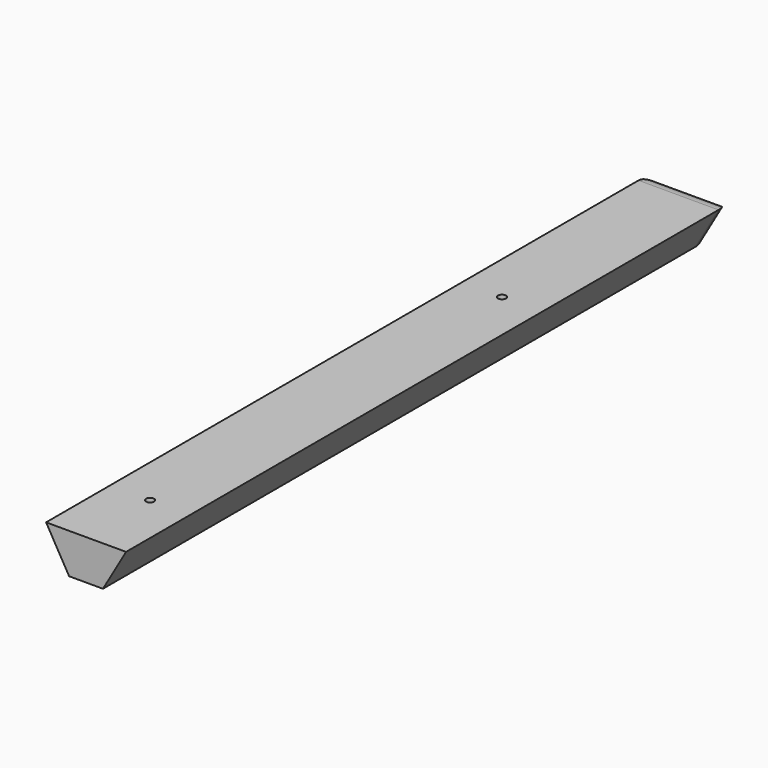
from build123d import *

# Parameters (mm, degrees)
F1_DEPTH = 482.6
F2_R     = 12.2642048969
F5_D     = 5.08


with BuildPart() as f1:
    # F0 (on Front) → F1 (new body)
    with BuildSketch(Plane.XZ):
        Polygon((25.4, 12.7), (-25.4, 12.7), (-10.7353031626, -12.7), (10.7353031626, -12.7), align=None)
    extrude(amount=-F1_DEPTH)

    # F2
    f2_edges = [f1.edges().sort_by_distance(p)[0] for p in [
        (0, 482.6, 12.7),
        (18.067652, 482.6, 0),
        (0, 482.6, -12.7),
        (-18.067652, 482.6, 0),
    ]]
    fillet(f2_edges, radius=F2_R)

    # F5 (through all)
    with Locations(Plane.XY.offset(12.7)):
        with Locations((0, 330.2), (0, 50.8)):
            Hole(F5_D / 2)


solid = f1.part
